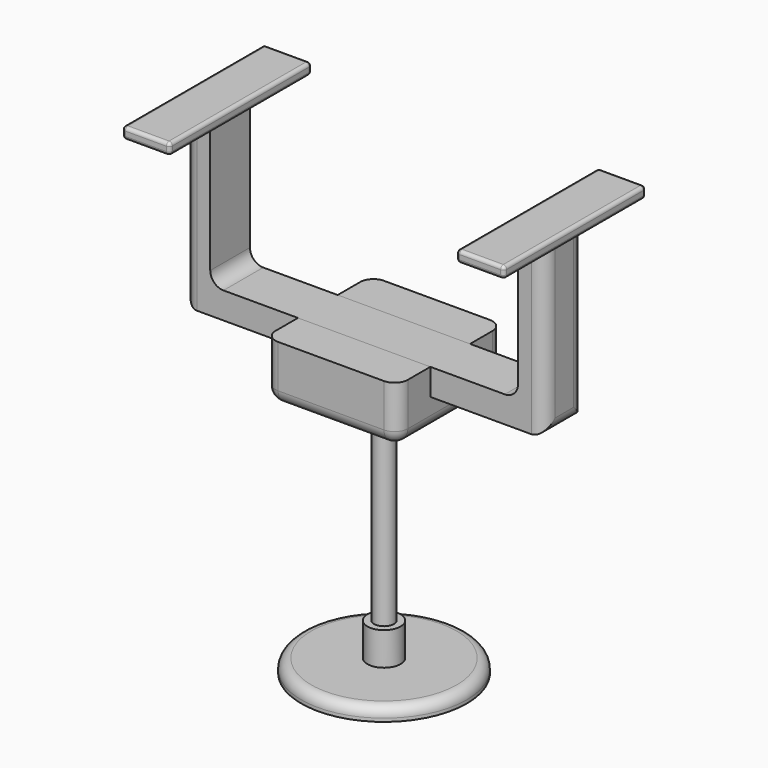
from build123d import *

# Parameters (mm, degrees)
SKETCH_R     = 125
PAD_DEPTH    = 20
SKETCH001_R  = 25
PAD001_DEPTH = 50
FILLET006_R  = 15
SKETCH002_R  = 15
PAD002_DEPTH = 300
SKETCH003_W  = 200
SKETCH003_H  = 200
PAD003_DEPTH = 45
SKETCH009_W  = 200
SKETCH009_H  = 62.5
PAD009_DEPTH = 40
FILLET005_R  = 20
SKETCH004_W  = 545
SKETCH004_H  = 75
PAD004_DEPTH = 40
SKETCH005_W  = 40
SKETCH005_H  = 75
PAD005_DEPTH = 216
SKETCH006_W  = 72
SKETCH006_H  = 268
PAD006_DEPTH = 17
FILLET003_R  = 5
FILLET004_R  = 20


with BuildPart() as body1:
    # Sketch → Pad (new body)
    with BuildSketch(Plane.XY):
        Circle(SKETCH_R)
    extrude(amount=PAD_DEPTH)

    # Sketch001 (on Face3 of Pad) → Pad001 (join)
    with BuildSketch(Plane.XY.offset(20)):
        Circle(SKETCH001_R)
    extrude(amount=PAD001_DEPTH)

    # Fillet006
    fillet006_edges = [body1.edges().sort_by_distance(p)[0] for p in [
        (-125, 0, 20),
    ]]
    fillet(fillet006_edges, radius=FILLET006_R)


with BuildPart() as body2:
    # Sketch002 (on CopyPad) → Pad002 (new body)
    with BuildSketch(Plane.XY.offset(70)):
        Circle(SKETCH002_R)
    extrude(amount=PAD002_DEPTH)


with BuildPart() as body3:
    # Sketch003 (on Face1 of CopyPad002) → Pad003 (new body)
    with BuildSketch(Plane.XY.offset(370)):
        Rectangle(SKETCH003_W, SKETCH003_H)
    extrude(amount=PAD003_DEPTH)

    # Sketch009 (on Face6 of Pad003) → Pad009 (join)
    with BuildSketch(Plane.XY.offset(415)):
        with Locations((0, 68.75)):
            Rectangle(SKETCH009_W, SKETCH009_H)
        with Locations((0, -68.75)):
            Rectangle(SKETCH009_W, SKETCH009_H)
    extrude(amount=PAD009_DEPTH)

    # Fillet005
    fillet005_edges = [body3.edges().sort_by_distance(p)[0] for p in [
        (-100, -100, 412.5),
        (100, -100, 412.5),
        (100, 100, 412.5),
        (-100, 100, 412.5),
        (0, -100, 370),
        (100, 0, 370),
        (-100, 0, 370),
        (0, 100, 370),
    ]]
    fillet(fillet005_edges, radius=FILLET005_R)


with BuildPart() as body4:
    # Sketch004 (on Face1 of CopyPad003) → Pad004 (new body)
    with BuildSketch(Plane.XY.offset(415)):
        Rectangle(SKETCH004_W, SKETCH004_H)
    extrude(amount=PAD004_DEPTH)

    # Sketch005 (on Face6 of Pad004) → Pad005 (join)
    with BuildSketch(Plane.XY.offset(455)):
        with Locations((-252.5, 0)):
            Rectangle(SKETCH005_W, SKETCH005_H)
        with Locations((252.5, 0)):
            Rectangle(SKETCH005_W, SKETCH005_H)
    extrude(amount=PAD005_DEPTH)

    # Sketch006 (on Face5 of Pad005) → Pad006 (join)
    with BuildSketch(Plane.XY.offset(671)):
        with Locations((-252.5, 0)):
            Rectangle(SKETCH006_W, SKETCH006_H)
        with Locations((252.5, 0)):
            Rectangle(SKETCH006_W, SKETCH006_H)
    extrude(amount=PAD006_DEPTH)

    # Fillet003
    fillet003_edges = [body4.edges().sort_by_distance(p)[0] for p in [
        (-288.5, 0, 688),
        (-216.5, 0, 688),
        (216.5, 0, 688),
        (288.5, 0, 688),
        (252.5, -134, 688),
        (252.5, 134, 688),
        (-252.5, 134, 688),
        (-252.5, -134, 688),
        (216.5, -134, 679.5),
        (288.5, -134, 679.5),
        (288.5, 134, 679.5),
        (216.5, 134, 679.5),
        (288.5, 0, 671),
        (252.5, 134, 671),
        (252.5, -134, 671),
        (216.5, 0, 671),
        (-288.5, 0, 671),
        (-252.5, -134, 671),
        (-288.5, -134, 679.5),
        (-216.5, -134, 679.5),
        (-216.5, 134, 679.5),
        (-216.5, 0, 671),
        (-252.5, 134, 671),
    ]]
    fillet(fillet003_edges, radius=FILLET003_R)

    # Fillet004
    fillet004_edges = [body4.edges().sort_by_distance(p)[0] for p in [
        (-272.5, 0, 415),
        (-232.5, 0, 455),
        (232.5, 0, 455),
        (272.5, 0, 415),
        (272.5, -37.5, 543),
        (272.5, 37.5, 543),
        (-272.5, -37.5, 543),
        (-272.5, 37.5, 543),
    ]]
    fillet(fillet004_edges, radius=FILLET004_R)


solid = Compound([body1.part, body2.part, body3.part, body4.part])
